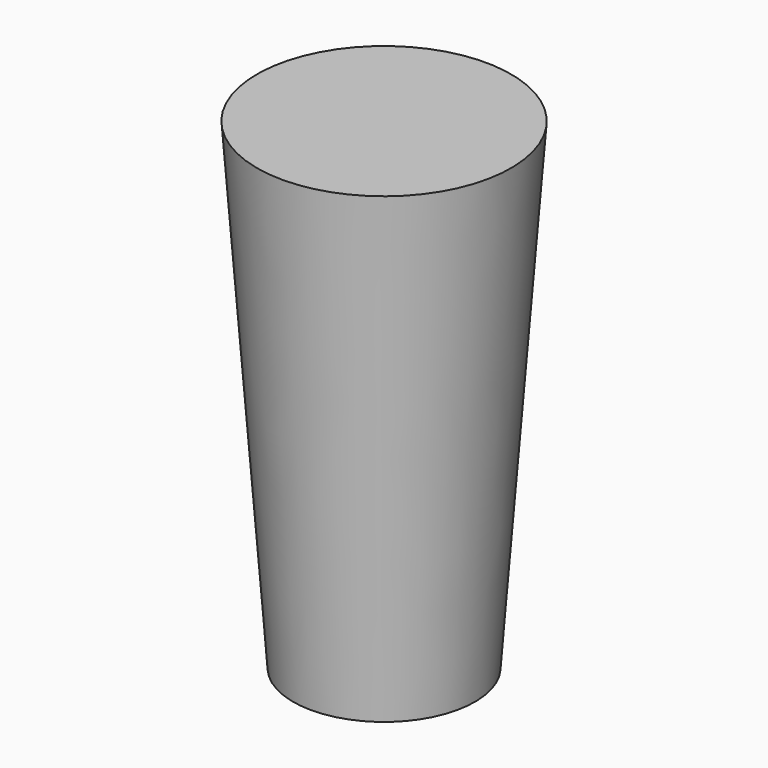
from build123d import *


with BuildPart() as f1:
    # F0 (on Right) → F1 (revolve)
    with BuildSketch(Plane.YZ):
        Polygon((0, 180), (-47.5, 180), (-34, 0), (0, 0), align=None)
    revolve(axis=Axis((0, 0, 90), (0, 0, 1)))


solid = f1.part
